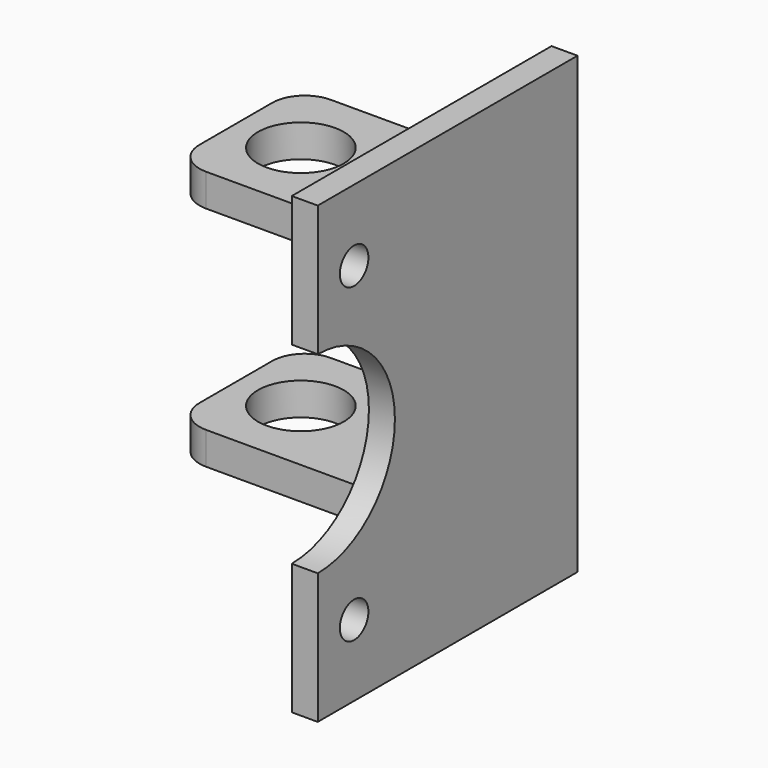
from build123d import *

# Parameters (mm, degrees)
SKETCH003_W   = 24
SKETCH003_H   = 5
PAD002_DEPTH  = 35
SKETCH004_R   = 6.6
HOLE001_DEPTH = 5.001
FILLET002_R   = 5
FILLET003_R   = 5
SKETCH002_W   = 24
SKETCH002_H   = 5
PAD001_DEPTH  = 35
SKETCH005_R   = 6.6
HOLE002_DEPTH = 5.001
FILLET_R      = 5
FILLET001_R   = 5
SKETCH_W      = 50
SKETCH_H      = 70
PAD_DEPTH     = 4
SKETCH001_R   = 2.75
HOLE_DEPTH    = 4.001
SKETCH006_R   = 14.85
HOLE003_DEPTH = 4.001


with BuildPart() as body002:
    # Sketch003 (on Face1 of CopyHole001) → Pad002 (new body)
    with BuildSketch(Plane(origin=(0, 0, 0), x_dir=(0, 1, 0), z_dir=(-1, 0, 0))):
        with Locations((63, -52.5)):
            Rectangle(SKETCH003_W, SKETCH003_H)
    extrude(amount=PAD002_DEPTH)

    # Sketch004 (on Face3 of Pad002) → Hole001 (cut, through all)
    with BuildSketch(Plane(origin=(0, 0, 55), x_dir=(0, -1, 0), z_dir=(0, 0, 1))):
        with Locations((-63, -25)):
            Circle(SKETCH004_R)
    extrude(amount=-HOLE001_DEPTH, mode=Mode.SUBTRACT)

    # Fillet002
    fillet002_edges = [body002.edges().sort_by_distance(p)[0] for p in [
        (-35, 75, 52.5),
    ]]
    fillet(fillet002_edges, radius=FILLET002_R)

    # Fillet003
    fillet003_edges = [body002.edges().sort_by_distance(p)[0] for p in [
        (-35, 51, 52.5),
    ]]
    fillet(fillet003_edges, radius=FILLET003_R)


with BuildPart() as body001:
    # Sketch002 (on Face1 of CopyHole) → Pad001 (new body)
    with BuildSketch(Plane(origin=(0, 0, 0), x_dir=(0, 1, 0), z_dir=(-1, 0, 0))):
        with Locations((63, -17.5)):
            Rectangle(SKETCH002_W, SKETCH002_H)
    extrude(amount=PAD001_DEPTH)

    # Sketch005 (on Face3 of Pad001) → Hole002 (cut, through all)
    with BuildSketch(Plane(origin=(0, 0, 20), x_dir=(0, -1, 0), z_dir=(0, 0, 1))):
        with Locations((-63, -25)):
            Circle(SKETCH005_R)
    extrude(amount=-HOLE002_DEPTH, mode=Mode.SUBTRACT)

    # Fillet
    fillet_edges = [body001.edges().sort_by_distance(p)[0] for p in [
        (-35, 75, 17.5),
    ]]
    fillet(fillet_edges, radius=FILLET_R)

    # Fillet001
    fillet001_edges = [body001.edges().sort_by_distance(p)[0] for p in [
        (-35, 51, 17.5),
    ]]
    fillet(fillet001_edges, radius=FILLET001_R)


with BuildPart() as body:
    # Sketch → Pad (new body)
    with BuildSketch(Plane.YZ):
        with Locations((55, 35)):
            Rectangle(SKETCH_W, SKETCH_H)
    extrude(amount=PAD_DEPTH)

    # Sketch001 (on Face5 of Pad) → Hole (cut, through all)
    with BuildSketch(Plane(origin=(0, 0, 0), x_dir=(0, 1, 0), z_dir=(-1, 0, 0))):
        with Locations((37, -11)):
            Circle(SKETCH001_R)
        with Locations((37, -59)):
            Circle(SKETCH001_R)
    extrude(amount=-HOLE_DEPTH, mode=Mode.SUBTRACT)

    # Sketch006 (on Face4 of Hole) → Hole003 (cut, through all)
    with BuildSketch(Plane(origin=(0, 0, 0), x_dir=(0, 1, 0), z_dir=(-1, 0, 0))):
        with Locations((30, -35)):
            Circle(SKETCH006_R)
    extrude(amount=-HOLE003_DEPTH, mode=Mode.SUBTRACT)

    # Boolean: union Body002, Body001
    add(body002.part)
    add(body001.part)


solid = body.part
